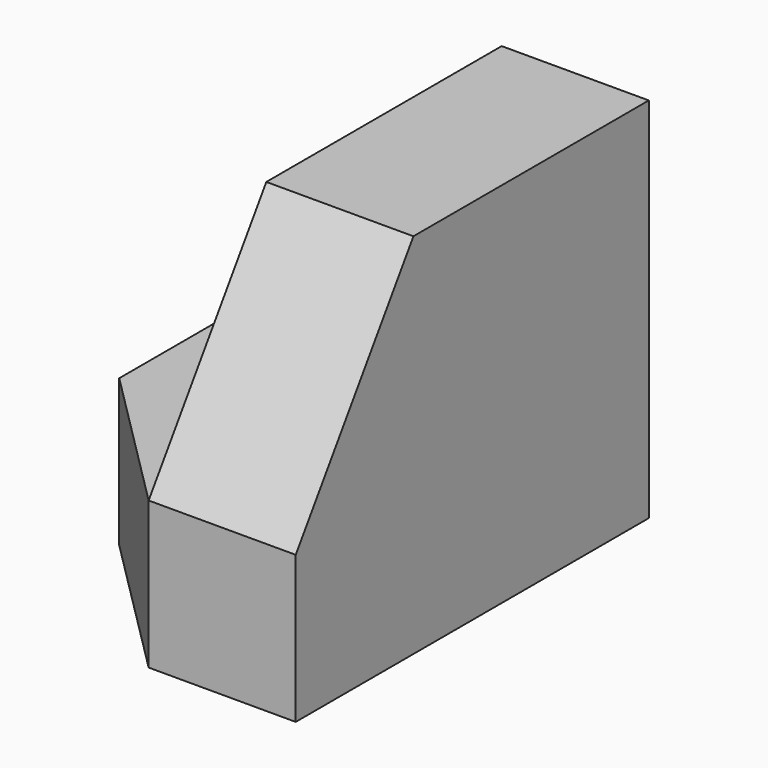
from build123d import *

# Parameters (mm, degrees)
F0_W     = 12.7
F0_H     = 12.7
F1_DEPTH = 38.1
F4_DEPTH = 25.4
F5_DEPTH = 25.4


with BuildPart() as f1:
    # F0 (on Front) → F1 (new body)
    with BuildSketch(Plane.XZ):
        with Locations((-19.05, 6.35)):
            Rectangle(F0_W, F0_H)
        Polygon((-12.7, 0), (0, 0), (0, 31.75), (-12.7, 31.75), (-12.7, 12.7), align=None)
    extrude(amount=F1_DEPTH)

    # F3 (on face) → F4 (cut)
    with BuildSketch(Plane(origin=(-12.7, 0, 0), x_dir=(0, -1, 0), z_dir=(-1, 0, 0))):
        Polygon((38.1, 12.7), (38.1, 31.75), (25.4, 31.75), align=None)
    extrude(amount=-F4_DEPTH, mode=Mode.SUBTRACT)

    # F2 (on face) → F5 (cut)
    with BuildSketch(Plane.XY.offset(12.7)):
        Polygon((-25.4, -38.1), (-12.7, -38.1), (-25.4, -25.4), align=None)
    extrude(amount=-F5_DEPTH, mode=Mode.SUBTRACT)


solid = f1.part
